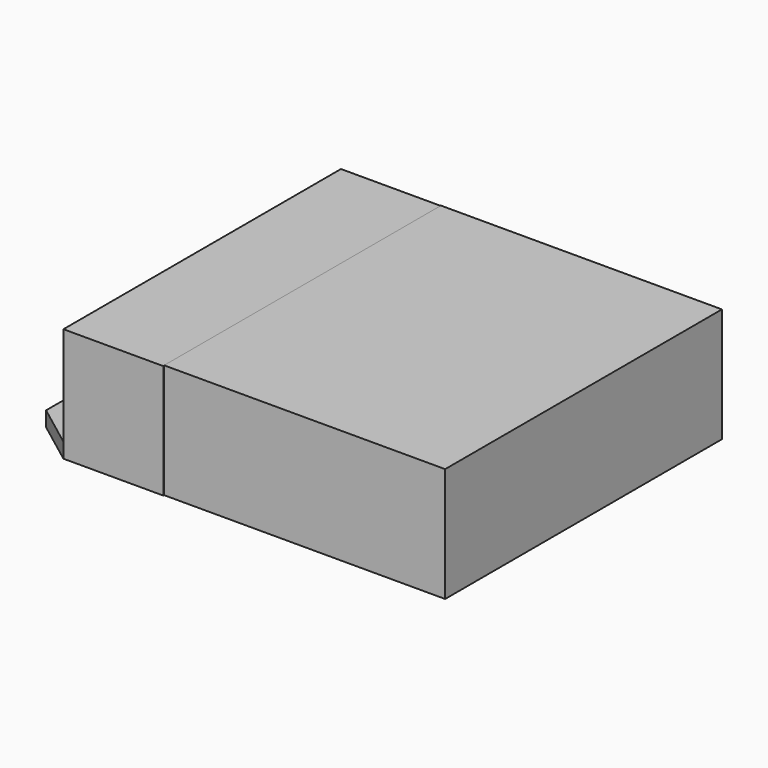
from build123d import *

# Parameters (mm, degrees)
F0_W     = 90.209164
F0_H     = 111.066584
F1_DEPTH = 36.7
F2_DEPTH = 36.6
F3_DEPTH = 4.8


with BuildPart() as f1:
    # F0 (on Top) → F1 (new body)
    with BuildSketch(Plane.XY):
        with Locations((2.21774, -3.225146)):
            Rectangle(F0_W, F0_H)
    extrude(amount=F1_DEPTH)


with BuildPart() as f2:
    # F0 (on Top) → F2 (new body)
    with BuildSketch(Plane.XY):
        Polygon((-42.886842, -58.758438), (-42.886842, 52.308146), (-74.971594, 52.308146), (-74.971594, -59.062503), (-42.886842, -59.062503), align=None)
    extrude(amount=F2_DEPTH)


with BuildPart() as f3:
    # F0 (on Top) → F3 (new body)
    with BuildSketch(Plane.XY):
        Polygon((-74.971594, -59.062503), (-74.971594, 52.308146), (-89.024626, 38.248107), (-89.024626, -48.456442), align=None)
    extrude(amount=F3_DEPTH)


solid = Compound([f1.part, f2.part, f3.part])
